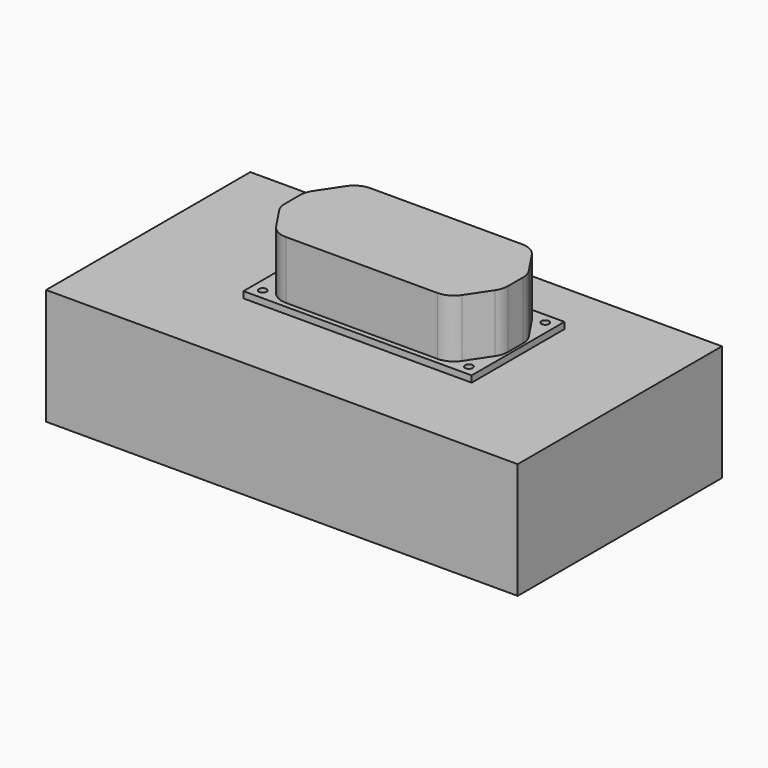
from build123d import *

# Parameters (mm, degrees)
F0_W     = 182.950832
F0_H     = 99.036887
F1_DEPTH = 45
F4_W     = 88.5
F4_H     = 45
F4_R     = 1.5
F5_DEPTH = 2.5
F6_DEPTH = 25


with BuildPart() as f1:
    # F0 (on Top) → F1 (new body)
    with BuildSketch(Plane.XY):
        with Locations((-2.950821, -5.993854)):
            Rectangle(F0_W, F0_H)
    extrude(amount=-F1_DEPTH)


with BuildPart() as f5:
    # F4 (on Top) → F5 (new body)
    with BuildSketch(Plane.XY):
        Rectangle(F4_W, F4_H)
        with Locations((-40, -18.5)):
            Circle(F4_R, mode=Mode.SUBTRACT)
        with Locations((40, -18.5)):
            Circle(F4_R, mode=Mode.SUBTRACT)
        with Locations((-40, 18.5)):
            Circle(F4_R, mode=Mode.SUBTRACT)
        with Locations((40, 18.5)):
            Circle(F4_R, mode=Mode.SUBTRACT)
    extrude(amount=F5_DEPTH)


with BuildPart() as f6:
    # F3 (on Top) → F6 (new body)
    with BuildSketch(Plane.XY):
        with BuildLine():
            Line((29.38816, 20.5), (-29.38816, 20.5))
            ThreePointArc((-29.38816, 20.5), (-33.161684, 19.554114), (-36.042876, 16.94013))
            Line((-36.042876, 16.94013), (-41.904716, 8.154604))
            ThreePointArc((-41.904716, 8.154604), (-42.906296, 6.034202), (-43.25, 3.714474))
            Line((-43.25, 3.714474), (-43.25, -3.714474))
            ThreePointArc((-43.25, -3.714474), (-42.906296, -6.034202), (-41.904716, -8.154604))
            Line((-41.904716, -8.154604), (-36.042876, -16.94013))
            ThreePointArc((-36.042876, -16.94013), (-33.161684, -19.554114), (-29.38816, -20.5))
            Line((-29.38816, -20.5), (29.38816, -20.5))
            ThreePointArc((29.38816, -20.5), (33.161684, -19.554114), (36.042876, -16.94013))
            Line((36.042876, -16.94013), (41.904716, -8.154604))
            ThreePointArc((41.904716, -8.154604), (42.906296, -6.034202), (43.25, -3.714474))
            Line((43.25, -3.714474), (43.25, 3.714474))
            ThreePointArc((43.25, 3.714474), (42.906296, 6.034202), (41.904716, 8.154604))
            Line((41.904716, 8.154604), (36.042876, 16.94013))
            ThreePointArc((36.042876, 16.94013), (33.161684, 19.554114), (29.38816, 20.5))
        make_face()
    extrude(amount=F6_DEPTH)


solid = Compound([f1.part, f5.part, f6.part])
